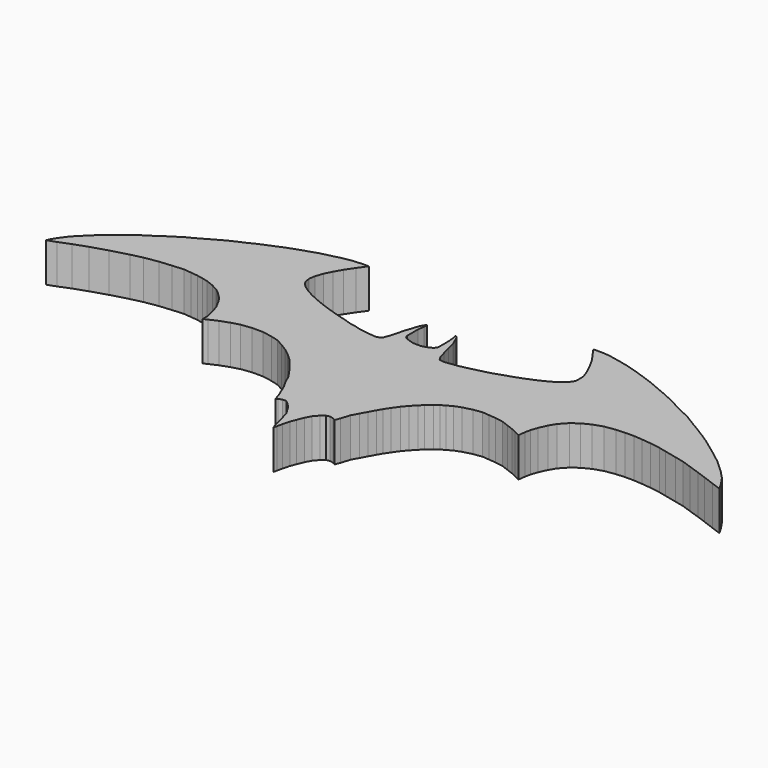
from build123d import *

# Parameters (mm, degrees)
F1_DEPTH = 7.62


with BuildPart() as f1:
    # F0 (on Top) → F1 (new body)
    with BuildSketch(Plane.XY):
        Polygon((-31.574301, 30.591127), (-30.39713, 32.232035), (-31.623341, 32.241151), (-33.633549, 32.071274), (-35.318159, 31.773988), (-36.82394, 31.394601), (-38.968682, 30.884663), (-40.813457, 30.269736), (-42.898204, 29.57982), (-44.497907, 28.970409), (-46.150476, 28.271247), (-48.295628, 27.381405), (-49.83696, 26.602793), (-51.330622, 25.951304), (-52.808393, 25.236253), (-54.842312, 24.092171), (-56.796785, 22.97987), (-58.241776, 22.24039), (-59.644609, 21.341701), (-60.832858, 20.580478), (-61.961051, 19.785978), (-63.073352, 19.070925), (-64.090312, 18.419435), (-65.234393, 17.497813), (-66.664495, 16.464964), (-67.745015, 15.543342), (-68.539515, 14.860071), (-69.206901, 14.30392), (-70.795901, 12.746698), (-72.019428, 11.523167), (-73.004611, 10.156625), (-73.799246, 8.958571), (-74.070429, 8.280614), (-72.384901, 8.869533), (-70.223853, 9.743485), (-67.586109, 10.665106), (-64.471662, 11.634397), (-61.150651, 12.540128), (-58.894269, 13.073813), (-56.288306, 13.49353), (-53.904802, 13.71599), (-51.696088, 13.874889), (-50.170645, 13.731879), (-48.851773, 13.57298), (-47.707692, 13.350519), (-46.547173, 13.073813), (-45.054059, 12.476568), (-43.782856, 11.825077), (-42.765897, 10.982906), (-41.621815, 9.854715), (-40.938545, 8.774194), (-40.159933, 7.328202), (-39.699126, 5.86632), (-39.270096, 4.038968), (-39.270096, 2.910777), (-38.491484, 3.276247), (-36.93426, 3.975408), (-35.20225, 4.595119), (-33.613246, 5.040039), (-31.595215, 5.29428), (-29.418282, 5.29428), (-27.54326, 4.944699), (-26.017817, 4.531559), (-24.603605, 3.768838), (-23.237064, 2.910777), (-21.918193, 1.877926), (-20.710552, 0.797404), (-19.884272, -0.219557), (-18.644851, -1.744999), (-17.246528, -3.763031), (-16.499698, -5.399704), (-15.736977, -6.734465), (-14.656455, -9.324539), (-14.211535, -10.659301), (-13.909625, -10.516291), (-13.258134, -10.229373), (-12.463633, -10.229373), (-11.812142, -10.786421), (-11.049422, -11.580922), (-9.95301, -13.360604), (-9.333299, -15.521646), (-8.793038, -17.603239), (-8.567853, -18.25355), (-8.399027, -17.603239), (-8.173328, -16.570387), (-7.82046, -15.179737), (-7.378827, -14.075655), (-6.870346, -12.804452), (-6.266525, -11.692151), (-5.472024, -10.78642), (-4.788754, -10.229373), (-4.089592, -10.087259), (-3.424329, -10.229373), (-2.838773, -10.551429), (-2.477086, -9.597891), (-1.913345, -7.813453), (-1.221125, -6.554872), (-0.527323, -5.293413), (0.132597, -4.093559), (0.672532, -3.163671), (1.407443, -2.068804), (2.262339, -0.853951), (3.117236, 0.150927), (4.066557, 1.155343), (4.802689, 1.849007), (5.807794, 2.74086), (6.586396, 3.307116), (7.43578, 3.774277), (8.412571, 4.326377), (9.658334, 4.793538), (11.44204, 5.260699), (13.169121, 5.501358), (14.485666, 5.388107), (15.872993, 5.260699), (17.432639, 5.002029), (18.803367, 4.482097), (20.034974, 4.014936), (21.06839, 3.519462), (22.101808, 2.995676), (22.285841, 4.397159), (22.512343, 5.515514), (22.937035, 6.747121), (23.630699, 8.290168), (24.395145, 9.564244), (25.683377, 10.951571), (27.056549, 11.956675), (28.65622, 12.763591), (30.510709, 13.372315), (32.620013, 13.683756), (34.219939, 13.786001), (36.019724, 13.786001), (37.639525, 13.666015), (39.454307, 13.471039), (41.418086, 13.166837), (42.945915, 12.813291), (45.239301, 12.282591), (47.103379, 11.851235), (48.933156, 11.221311), (51.152889, 10.471403), (52.817687, 9.871475), (55.037417, 9.046575), (56.972183, 8.341661), (56.092182, 9.858904), (55.052415, 11.371293), (53.552598, 12.946103), (52.262753, 14.130958), (51.062901, 15.225826), (49.233124, 16.635653), (47.493331, 17.925497), (45.633558, 19.290332), (44.193733, 20.250214), (42.378955, 21.375079), (39.934248, 22.844899), (38.599409, 23.684798), (36.799628, 24.569692), (35.014845, 25.439586), (33.095077, 26.474461), (30.965338, 27.434345), (29.045571, 28.244248), (26.810842, 29.189132), (24.846081, 29.879048), (22.806328, 30.583963), (20.586597, 31.228885), (18.771816, 31.648833), (16.912043, 32.023787), (15.517212, 32.218765), (13.342476, 32.218765), (13.762425, 31.558845), (14.392348, 30.748943), (15.382227, 29.309118), (16.087143, 28.064268), (16.552085, 27.194375), (17.152013, 25.919529), (17.571962, 24.809664), (17.771397, 24.134746), (17.771397, 23.467366), (17.771397, 22.990664), (17.771397, 22.498073), (17.501267, 21.926032), (16.881555, 21.226872), (15.689805, 20.289361), (14.450383, 19.590201), (13.163292, 18.954599), (11.2406, 18.160097), (9.651598, 17.556276), (7.951366, 17.016016), (6.314693, 16.459865), (4.471451, 15.967274), (2.628209, 15.522354), (0.753187, 15.109214), (-0.629245, 14.934423), (-1.852776, 14.775524), (-2.726728, 14.902644), (-3.282879, 15.792485), (-3.648349, 17.159028), (-4.061489, 18.73214), (-4.50641, 20.400591), (-5.030781, 21.608232), (-5.332691, 22.307394), (-5.809391, 22.625195), (-5.666381, 22.084933), (-5.499822, 20.685161), (-5.499822, 19.81266), (-5.499822, 18.922819), (-5.499822, 18.012348), (-5.841171, 17.460937), (-6.476772, 17.095467), (-7.144153, 16.841227), (-7.859204, 16.682619), (-8.653705, 16.682619), (-9.286705, 16.682619), (-9.981172, 16.898676), (-10.872292, 17.175913), (-11.292474, 17.436026), (-11.561832, 17.941073), (-11.561832, 18.698642), (-11.561832, 20.685161), (-11.393484, 21.930942), (-11.393484, 22.705346), (-11.629173, 22.402318), (-12.066879, 21.695253), (-12.538256, 20.180114), (-12.942294, 19.06901), (-13.228486, 17.856898), (-13.506488, 16.750436), (-14.077238, 15.216544), (-14.398285, 14.966841), (-15.058215, 14.806317), (-15.593293, 14.806317), (-16.984496, 14.984677), (-18.411372, 15.180873), (-19.570708, 15.519755), (-20.747881, 15.733786), (-22.210428, 16.197521), (-23.655139, 16.607748), (-25.010671, 17.017974), (-26.330531, 17.446037), (-27.882259, 17.998951), (-29.558839, 18.676717), (-30.985715, 19.318812), (-32.394752, 20.050084), (-33.464909, 20.799194), (-34.267526, 21.494796), (-34.749098, 22.261743), (-34.927458, 23.385406), (-34.749098, 24.526905), (-34.231856, 26.042961), (-33.536255, 27.452001), (-32.697968, 28.896712), align=None)
    extrude(amount=F1_DEPTH)


solid = f1.part
